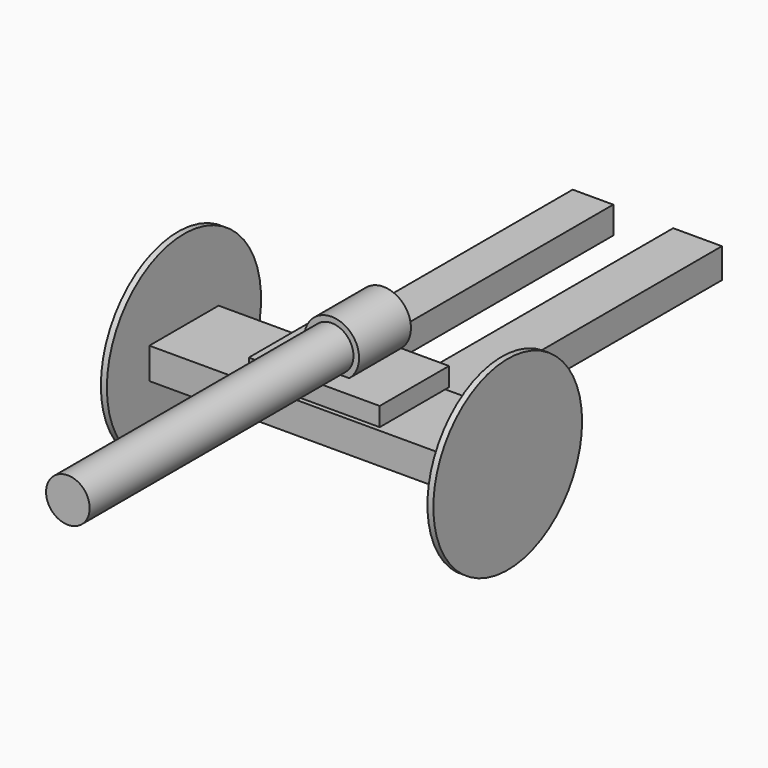
from build123d import *

# Parameters (mm, degrees)
F0_R       = 6.3982496495
F1_DEPTH   = 115.696169436
F2_W       = 38.3896529675
F2_H       = 5.4842233658
F3_DEPTH   = 25.4
F4_R       = 8.0369211596
F5_DEPTH   = 19.01746355
F6_W       = 93.2320058346
F6_H       = 9.1404020786
F7_DEPTH   = 25.4
F8_R       = 27.2605842684
F7_FACE1_W = 25.4
F7_FACE1_H = 9.1404020786
F9_DEPTH   = 1.7373869196
F10_R      = 28.2601456602
F11_DEPTH  = 1.7592711374
F12_W      = 11.894620955
F12_H      = 7.9743340611
F12_W_2    = 14.2896864563
F12_H_2    = 8.7689161301
F13_DEPTH  = 95.5624356866


with BuildPart() as f1:
    # F0 (on Front) → F1 (new body)
    with BuildSketch(Plane.XZ):
        Circle(F0_R)
    extrude(amount=F1_DEPTH)

    # F2 (on Front) → F3 (join)
    with BuildSketch(Plane.XZ):
        with Locations((0, -8.9118797332)):
            Rectangle(F2_W, F2_H)
    extrude(amount=F3_DEPTH)

    # F4 (on Front) → F5 (join)
    with BuildSketch(Plane.XZ):
        Circle(F4_R)
    extrude(amount=F5_DEPTH)


with BuildPart() as f7:
    # F6 (on Front) → F7 (new body)
    with BuildSketch(Plane.XZ):
        with Locations((0, -17.138229683)):
            Rectangle(F6_W, F6_H)
    extrude(amount=F7_DEPTH)

    # F8 (on face) + F7_face1 (on face) → F9 (join)
    with BuildSketch(Plane.YZ.offset(46.6160029173)):
        with Locations((-12.7541217953, -17.4758378416)):
            Circle(F8_R)
    with BuildSketch(Plane(origin=(-46.6160029173, -12.7, -17.138229683), x_dir=(0, -1, 0), z_dir=(-1, 0, 0))):
        Rectangle(F7_FACE1_W, F7_FACE1_H)
    extrude(amount=-F9_DEPTH, dir=(1, 0, 0))

    # F10 (on face) → F11 (join)
    with BuildSketch(Plane(origin=(-48.3533898368, 0, 0), x_dir=(0, -1, 0), z_dir=(-1, 0, 0))):
        with Locations((12.7, -17.138229683)):
            Circle(F10_R)
    extrude(amount=F11_DEPTH)

    # F12 (on face) → F13 (join)
    with BuildSketch(Plane(origin=(0, 0, 0), x_dir=(-1, 0, 0), z_dir=(0, 1, 0))):
        with Locations((15.0415115058, -16.5551956743)):
            Rectangle(F12_W, F12_H)
        with Locations((-15.6222125515, -17.3239726573)):
            Rectangle(F12_W_2, F12_H_2)
    extrude(amount=F13_DEPTH)


solid = Compound([f1.part, f7.part])
